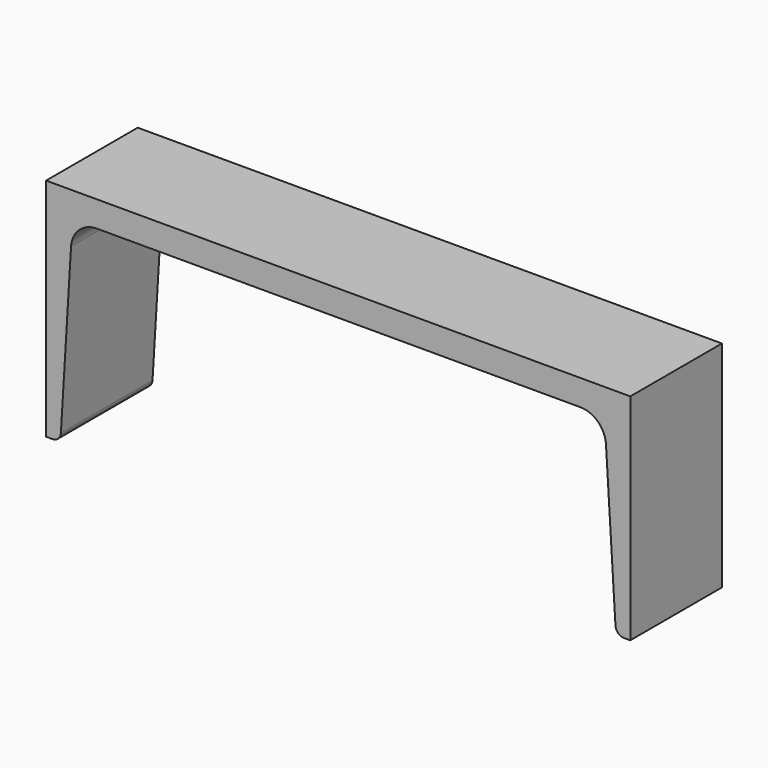
from build123d import *

# Parameters (mm, degrees)
F1_DEPTH = 40


with BuildPart() as f1:
    # F0 (on Front) → F1 (new body)
    with BuildSketch(Plane.XZ):
        with BuildLine():
            Line((201.81636, 3.75802), (203.992674, 3.75802))
            Line((203.992674, 3.75802), (203.992674, 78.75802))
            Line((203.992674, 78.75802), (0, 78.75802))
            Line((0, 78.75802), (0, 0))
            Line((0, 0), (2.176314, 0))
            ThreePointArc((2.176314, 0), (4.232468, 0.815457), (5.170819, 2.818515))
            Line((5.170819, 2.818515), (8.715302, 61.302475))
            ThreePointArc((8.715302, 61.302475), (11.530354, 67.311649), (17.698818, 69.75802))
            Line((17.698818, 69.75802), (186.521615, 69.75802))
            ThreePointArc((186.521615, 69.75802), (192.690079, 67.311649), (195.505131, 61.302475))
            Line((195.505131, 61.302475), (198.821855, 6.576535))
            ThreePointArc((198.821855, 6.576535), (199.760206, 4.573477), (201.81636, 3.75802))
        make_face()
    extrude(amount=F1_DEPTH)


solid = f1.part
